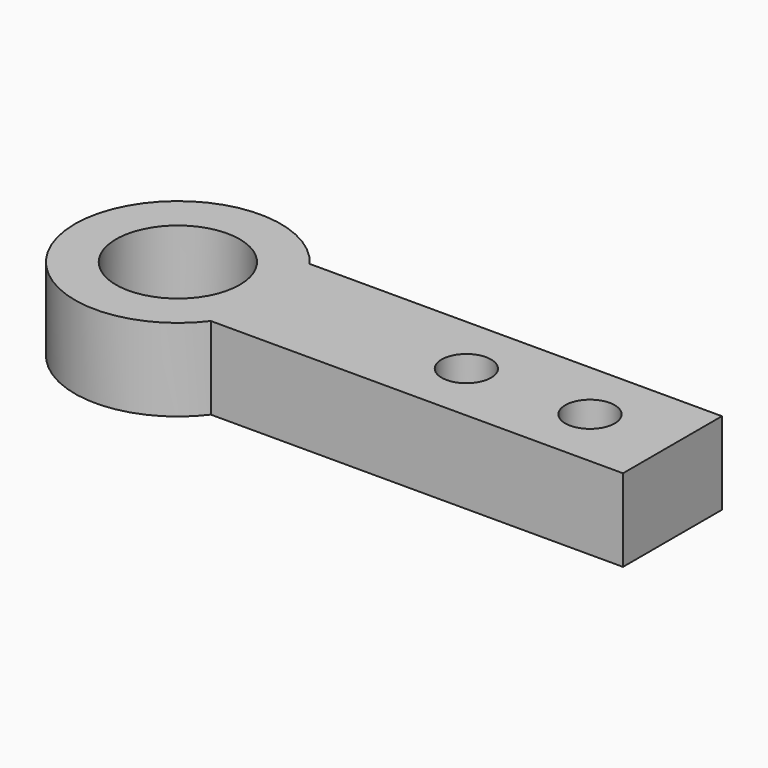
from build123d import *

# Parameters (mm, degrees)
F0_R     = 7.5
F0_R_2   = 3
F1_DEPTH = 10


with BuildPart() as f1:
    # F0 (on Top) → F1 (new body)
    with BuildSketch(Plane.XY):
        with BuildLine():
            ThreePointArc((10, -7.5), (11.858541, -3.952847), (12.5, 0))
            ThreePointArc((12.5, 0), (11.858541, 3.952847), (10, 7.5))
            ThreePointArc((10, 7.5), (-12.5, 0), (10, -7.5))
        make_face()
        Circle(F0_R, mode=Mode.SUBTRACT)
        with BuildLine():
            ThreePointArc((10, 7.5), (11.858541, 3.952847), (12.5, 0))
            ThreePointArc((12.5, 0), (11.858541, -3.952847), (10, -7.5))
            Line((10, -7.5), (60, -7.5))
            Line((60, -7.5), (60, 7.5))
            Line((60, 7.5), (10, 7.5))
        make_face()
        with Locations((35, 0)):
            Circle(F0_R_2, mode=Mode.SUBTRACT)
        with Locations((50, 0)):
            Circle(F0_R_2, mode=Mode.SUBTRACT)
    extrude(amount=F1_DEPTH)


solid = f1.part
